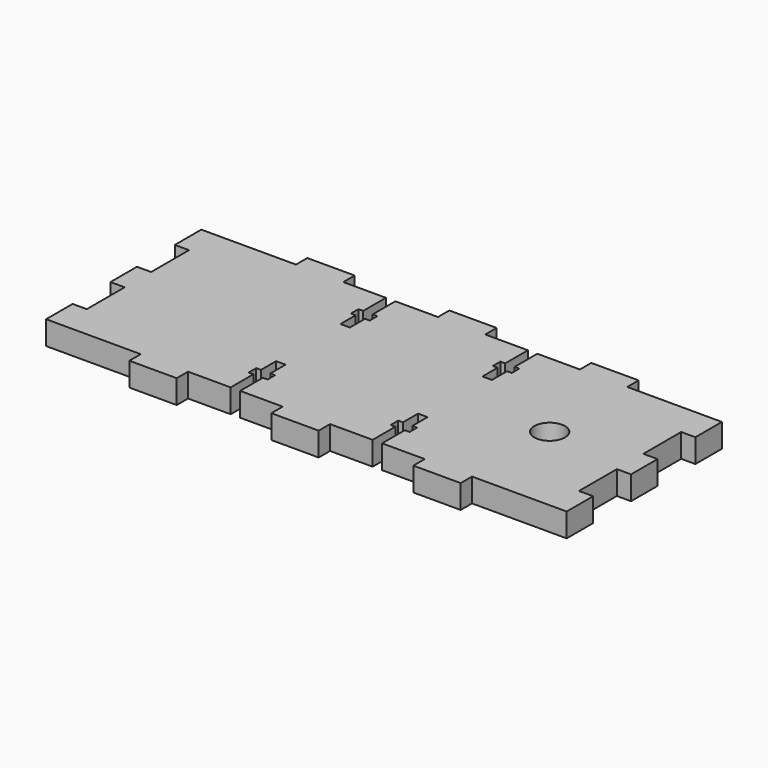
from build123d import *

# Parameters (mm, degrees)
F0_R     = 3.25
F1_DEPTH = 5


with BuildPart() as f1:
    # F0 (on Top) → F1 (new body)
    with BuildSketch(Plane.XY):
        Polygon((-43.508064, 47.219317), (-63.508064, 47.219317), (-63.508064, 40.219317), (-60.508064, 40.219317), (-60.508064, 30.219317), (-63.508064, 30.219317), (-63.508064, 23.219317), (-60.508064, 23.219317), (-60.508064, 13.219317), (-63.508064, 13.219317), (-63.508064, 6.219317), (-43.508064, 6.219317), (-43.508064, 3.219317), (-33.508064, 3.219317), (-33.508064, 6.219317), (-24.508064, 6.219317), (-24.508064, 12.219317), (-25.508064, 12.219317), (-25.508064, 14.219317), (-24.508064, 14.219317), (-24.508064, 18.219317), (-22.508064, 18.219317), (-22.508064, 14.219317), (-21.508064, 14.219317), (-21.508064, 12.219317), (-22.508064, 12.219317), (-22.508064, 6.219317), (-13.508064, 6.219317), (-13.508064, 3.219317), (-3.508064, 3.219317), (-3.508064, 6.219317), (5.491936, 6.219317), (5.491936, 12.219317), (4.491936, 12.219317), (4.491936, 14.219317), (5.491936, 14.219317), (5.491936, 18.219317), (7.491936, 18.219317), (7.491936, 14.219317), (8.491936, 14.219317), (8.491936, 12.219317), (7.491936, 12.219317), (7.491936, 6.219317), (16.491936, 6.219317), (16.491936, 3.219317), (26.491936, 3.219317), (26.491936, 6.219317), (46.491936, 6.219317), (46.491936, 13.219317), (43.491936, 13.219317), (43.491936, 23.219317), (46.491936, 23.219317), (46.491936, 30.219317), (43.491936, 30.219317), (43.491936, 40.219317), (46.491936, 40.219317), (46.491936, 47.219317), (26.491936, 47.219317), (26.491936, 50.219317), (16.491936, 50.219317), (16.491936, 47.219317), (7.491936, 47.219317), (7.491936, 41.219317), (8.491936, 41.219317), (8.491936, 39.219317), (7.491936, 39.219317), (7.491936, 35.219317), (5.491936, 35.219317), (5.491936, 39.219317), (4.491936, 39.219317), (4.491936, 41.219317), (5.491936, 41.219317), (5.491936, 47.219317), (-3.508064, 47.219317), (-3.508064, 50.219317), (-13.508064, 50.219317), (-13.508064, 47.219317), (-22.508064, 47.219317), (-22.508064, 41.219317), (-21.508064, 41.219317), (-21.508064, 39.219317), (-22.508064, 39.219317), (-22.508064, 35.219317), (-24.508064, 35.219317), (-24.508064, 39.219317), (-25.508064, 39.219317), (-25.508064, 41.219317), (-24.508064, 41.219317), (-24.508064, 47.219317), (-33.508064, 47.219317), (-33.508064, 50.219317), (-43.508064, 50.219317), align=None)
        with Locations((26.491936, 26.719317)):
            Circle(F0_R, mode=Mode.SUBTRACT)
    extrude(amount=F1_DEPTH)


solid = f1.part
